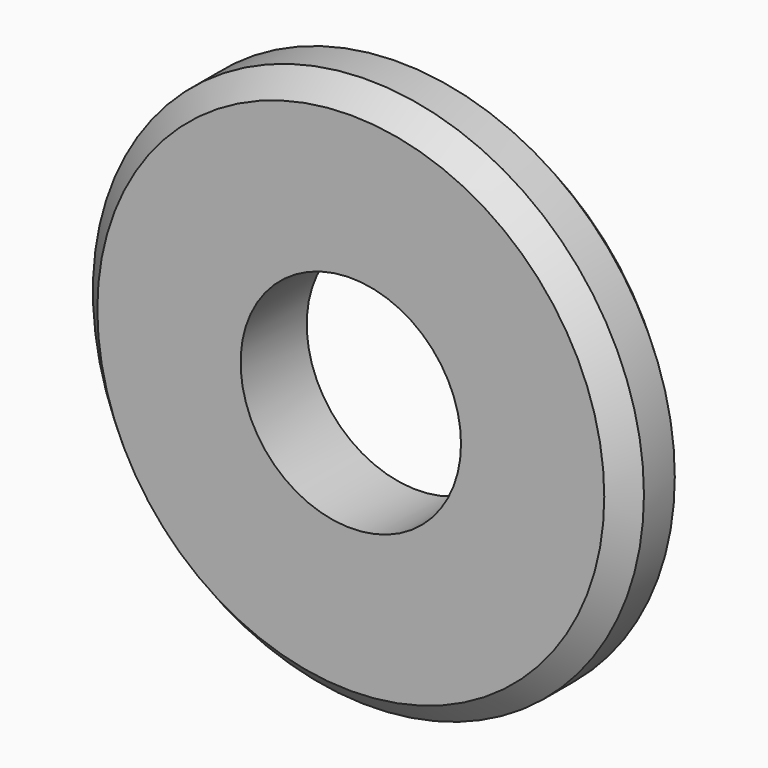
from build123d import *

# Parameters (mm, degrees)
F0_R     = 15.875
F0_R_2   = 6.35
F1_DEPTH = 4.7625
F2_SIZE  = 1.27


with BuildPart() as f1:
    # F0 (on Front) → F1 (new body)
    with BuildSketch(Plane.XZ):
        Circle(F0_R)
        Circle(F0_R_2, mode=Mode.SUBTRACT)
        Circle(F0_R)
        Circle(F0_R_2, mode=Mode.SUBTRACT)
    extrude(amount=F1_DEPTH)

    # F2
    f2_edges = [f1.edges().sort_by_distance(p)[0] for p in [
        (-15.875, -4.7625, 0),
        (-15.875, 0, 0),
    ]]
    chamfer(f2_edges, length=F2_SIZE)


solid = f1.part
